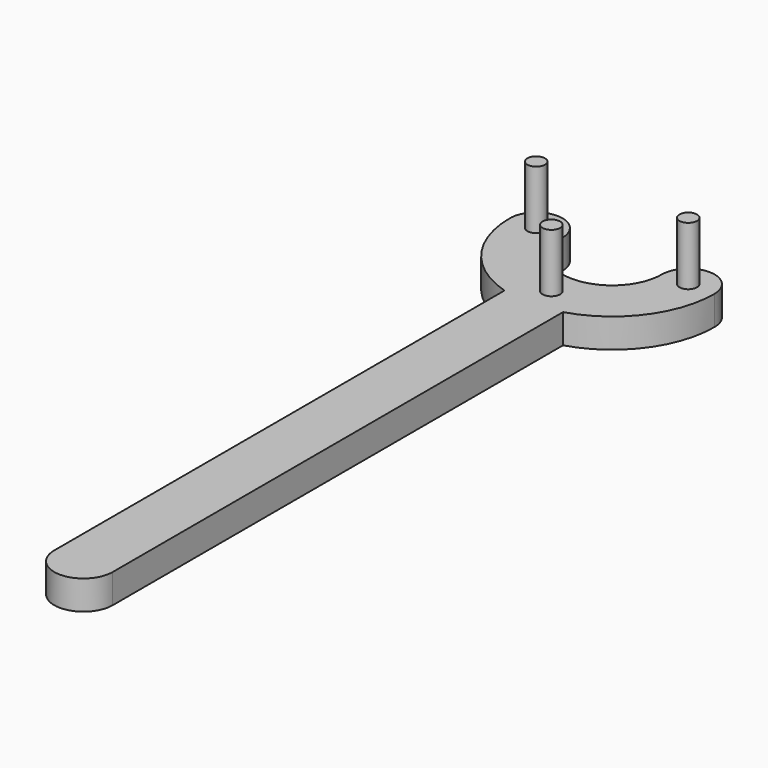
from build123d import *

# Parameters (mm, degrees)
BOX001_W          = 10
BOX001_H          = 100
BOX001_DEPTH      = 5
CYLINDER004_R     = 1.5
CYLINDER004_DEPTH = 10
CYLINDER005_R     = 1.5
CYLINDER005_DEPTH = 10
CYLINDER006_R     = 1.5
CYLINDER006_DEPTH = 10
CYLINDER007_R     = 5
CYLINDER007_DEPTH = 5
CYLINDER002_R     = 4.5
CYLINDER002_DEPTH = 5
CYLINDER003_R     = 4.5
CYLINDER003_DEPTH = 5
BOX_W             = 35
BOX_H             = 30.5
BOX_DEPTH         = 5
CYLINDER_R        = 8.5
CYLINDER_DEPTH    = 5
CYLINDER001_R     = 17.5
CYLINDER001_DEPTH = 5


with BuildPart() as cube001:
    # Box001 → Box001 (new body)
    with BuildSketch(Plane(origin=(-5, -113, 0), x_dir=(1, 0, 0), z_dir=(0, 0, 1))):
        with Locations((5, 50)):
            Rectangle(BOX001_W, BOX001_H)
    extrude(amount=BOX001_DEPTH)


with BuildPart() as cylinder004:
    # Cylinder004 → Cylinder004 (new body)
    with BuildSketch(Plane(origin=(0, -13, 5), x_dir=(1, 0, 0), z_dir=(0, 0, 1))):
        Circle(CYLINDER004_R)
    extrude(amount=CYLINDER004_DEPTH)


with BuildPart() as cylinder005:
    # Cylinder005 → Cylinder005 (new body)
    with BuildSketch(Plane(origin=(13, 0, 5), x_dir=(1, 0, 0), z_dir=(0, 0, 1))):
        Circle(CYLINDER005_R)
    extrude(amount=CYLINDER005_DEPTH)


with BuildPart() as cylinder006:
    # Cylinder006 → Cylinder006 (new body)
    with BuildSketch(Plane(origin=(-13, 0, 5), x_dir=(1, 0, 0), z_dir=(0, 0, 1))):
        Circle(CYLINDER006_R)
    extrude(amount=CYLINDER006_DEPTH)


with BuildPart() as cylinder007:
    # Cylinder007 → Cylinder007 (new body)
    with BuildSketch(Plane(origin=(0, -113, 0), x_dir=(1, 0, 0), z_dir=(0, 0, 1))):
        Circle(CYLINDER007_R)
    extrude(amount=CYLINDER007_DEPTH)


with BuildPart() as cylinder002:
    # Cylinder002 → Cylinder002 (new body)
    with BuildSketch(Plane(origin=(13, 0, 0), x_dir=(1, 0, 0), z_dir=(0, 0, 1))):
        Circle(CYLINDER002_R)
    extrude(amount=CYLINDER002_DEPTH)


with BuildPart() as cylinder003:
    # Cylinder003 → Cylinder003 (new body)
    with BuildSketch(Plane(origin=(-13, 0, 0), x_dir=(1, 0, 0), z_dir=(0, 0, 1))):
        Circle(CYLINDER003_R)
    extrude(amount=CYLINDER003_DEPTH)


with BuildPart() as cube:
    # Box → Box (new body)
    with BuildSketch(Plane(origin=(-17.5, 0, 0), x_dir=(1, 0, 0), z_dir=(0, 0, 1))):
        with Locations((17.5, 15.25)):
            Rectangle(BOX_W, BOX_H)
    extrude(amount=BOX_DEPTH)


with BuildPart() as cylinder:
    # Cylinder → Cylinder (new body)
    with BuildSketch(Plane.XY):
        Circle(CYLINDER_R)
    extrude(amount=CYLINDER_DEPTH)


with BuildPart() as obj1:
    # Cylinder001 → Cylinder001 (new body)
    with BuildSketch(Plane.XY):
        Circle(CYLINDER001_R)
    extrude(amount=CYLINDER001_DEPTH)

    # Cut: cut Cylinder
    add(cylinder.part, mode=Mode.SUBTRACT)

    # Cut001: cut Cube
    add(cube.part, mode=Mode.SUBTRACT)

    # Fusion: union Cylinder002, Cylinder003
    add(cylinder002.part)
    add(cylinder003.part)

    # Fusion001: union Cube001, Cylinder004, Cylinder005, Cylinder006, Cylinder007
    add(cube001.part)
    add(cylinder004.part)
    add(cylinder005.part)
    add(cylinder006.part)
    add(cylinder007.part)


solid = obj1.part
